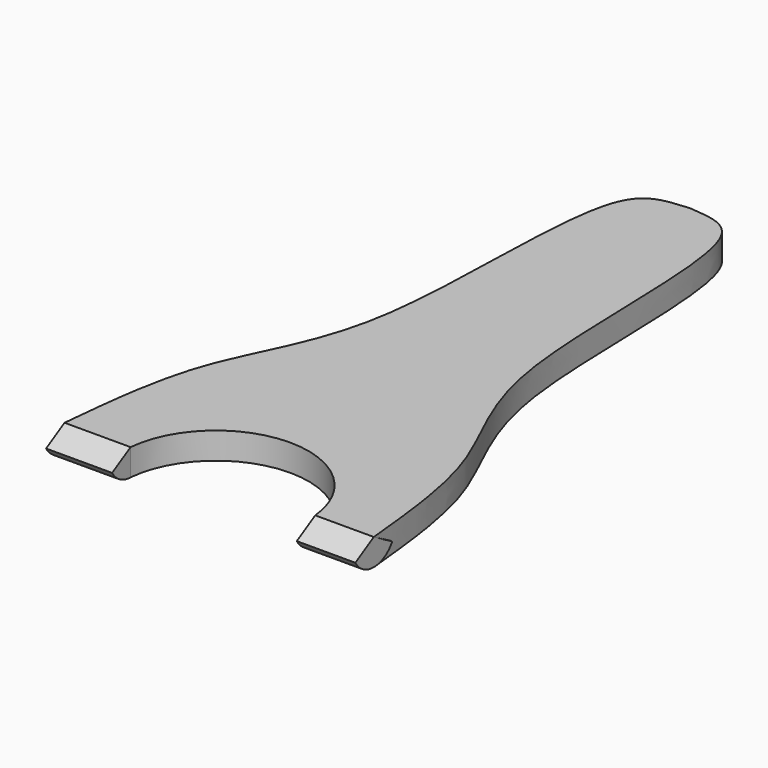
from build123d import *

# Parameters (mm, degrees)
F1_DEPTH      = 5
F3_DEPTH      = 25
F3_FACE_W     = 12.4035850167
F3_FACE_H     = 5
F3_FACE_W_2   = 11.0018514097
F5_ANGLE_BACK = 60
F5_ANGLE      = 120


with BuildPart() as f1:
    # F0 (on Top) → F1 (new body)
    with BuildSketch(Plane.XY):
        with BuildLine():
            add(Edge.make_bspline(
                [(0, 55.5150210857), (3.9831399918, 55.1830865443), (14.5254457518, 54.7088049694), (9.3191643411, -3.5095165584), (26.1631216831, -26.0257248677), (28.0955035048, -45.4406970435), (29.0437303483, -55.0171285868)],
                knots=[0, 0, 0, 0, 0.1504202138, 0.4916228475, 0.7502543955, 1, 1, 1, 1], degree=3))
            add(Edge.make_bspline(
                [(0, 55.5150210857), (-3.9831399918, 55.1830865443), (-14.5254457518, 54.7088049694), (-9.3191643411, -3.5095165584), (-26.1631216831, -26.0257248677), (-28.0955035048, -45.4406970435), (-29.0437303483, -55.0171285868)],
                knots=[0, 0, 0, 0, 0.1504202138, 0.4916228475, 0.7502543955, 1, 1, 1, 1], degree=3))
            Line((-29.0437303483, -55.0171285868), (0, -55.0171285868))
            Line((0, -55.0171285868), (29.0437303483, -55.0171285868))
        make_face()
    extrude(amount=F1_DEPTH)

    # F2 (on face) → F3 (cut)
    with BuildSketch(Plane.XY.offset(5)):
        with BuildLine():
            Line((-16.6401453316, -55.0171285868), (18.0418789387, -55.0171285868))
            ThreePointArc((18.0418789387, -55.0171285868), (0.7008668035, -39.2459911372), (-16.6401453316, -55.0171285868))
        make_face()
    extrude(amount=-F3_DEPTH, mode=Mode.SUBTRACT)

    # F3_face (on face) → F5 (revolve)
    with BuildSketch(Plane(origin=(-22.84193784, -55.0171285868, 2.5), x_dir=(1, 0, 0), z_dir=(0, -1, 0)), mode=Mode.PRIVATE) as f5_sk:
        Rectangle(F3_FACE_W, F3_FACE_H)
        with Locations((46.3847424835, 0)):
            Rectangle(F3_FACE_W_2, F3_FACE_H)
    revolve(f5_sk.sketch.rotate(Axis((-22.84193784, -55.0171285868, 5), (-1, 0, 0)), -F5_ANGLE_BACK), axis=Axis((-22.84193784, -55.0171285868, 5), (-1, 0, 0)), revolution_arc=F5_ANGLE)


solid = f1.part
